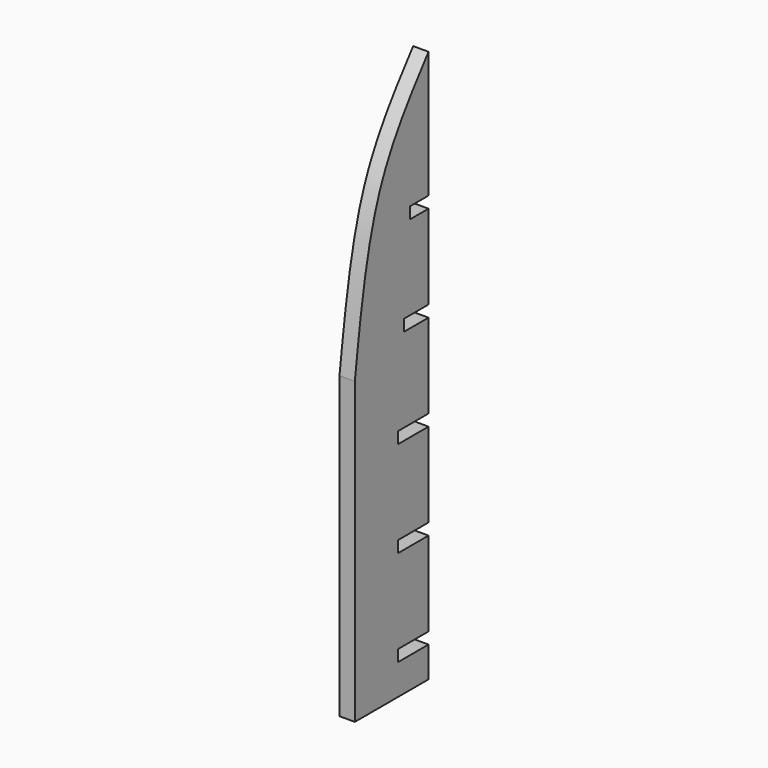
from build123d import *

# Parameters (mm, degrees)
F1_DEPTH = 25.4


with BuildPart() as f1:
    # F0 (on Right) → F1 (new body)
    with BuildSketch(Plane.YZ):
        with BuildLine():
            Line((-76.2, -457.2), (76.2, -457.2))
            Line((76.2, -457.2), (76.2, -406.4))
            Line((76.2, -406.4), (12.7, -406.4))
            Line((12.7, -406.4), (12.7, -387.35))
            Line((12.7, -387.35), (76.2, -387.35))
            Line((76.2, -387.35), (76.2, -247.65))
            Line((76.2, -247.65), (12.7, -247.65))
            Line((12.7, -247.65), (12.7, -228.6))
            Line((12.7, -228.6), (76.2, -228.6))
            Line((76.2, -228.6), (76.2, -88.9))
            Line((76.2, -88.9), (12.7, -88.9))
            Line((12.7, -88.9), (12.7, -69.85))
            Line((12.7, -69.85), (76.2, -69.85))
            Line((76.2, -69.85), (76.2, 69.85))
            Line((76.2, 69.85), (25.4, 69.85))
            Line((25.4, 69.85), (25.4, 88.9))
            Line((25.4, 88.9), (76.2, 88.9))
            Line((76.2, 88.9), (76.2, 228.6))
            Line((76.2, 228.6), (38.1, 228.6))
            Line((38.1, 228.6), (38.1, 247.65))
            Line((38.1, 247.65), (76.2, 247.65))
            Line((76.2, 247.65), (76.2, 457.2))
            add(Edge.make_bspline(
                [(76.2, 457.2), (39.3506912784, 410.1214823851), (-42.0134510054, 306.1710057379), (-64.1105424211, 133.5026752831), (-76.2, 39.0347465873)],
                knots=[0, 0, 0, 0, 0.4528937157, 1, 1, 1, 1], degree=3))
            Line((-76.2, 39.0347465873), (-76.2, -457.2))
        make_face()
    extrude(amount=F1_DEPTH)


solid = f1.part
